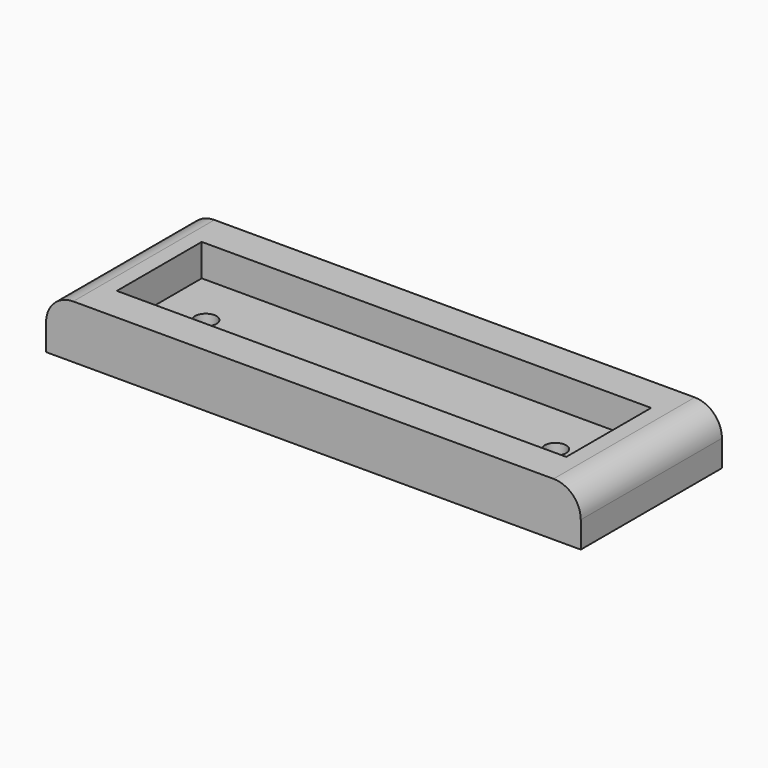
from build123d import *

# Parameters (mm, degrees)
F0_W     = 100
F0_H     = 33
F0_W_2   = 84.051668
F0_H_2   = 19.84357
F0_R     = 2
F1_DEPTH = 4
F2_DEPTH = 10
F3_R     = 5.08


with BuildPart() as f1:
    # F0 (on Top) → F1 (new body)
    with BuildSketch(Plane.XY):
        Rectangle(F0_W, F0_H)
        Rectangle(F0_W_2, F0_H_2, mode=Mode.SUBTRACT)
        Rectangle(F0_W_2, F0_H_2)
        with Locations((-33.341493, 0)):
            Circle(F0_R, mode=Mode.SUBTRACT)
        with Locations((32.065969, 0)):
            Circle(F0_R, mode=Mode.SUBTRACT)
    extrude(amount=F1_DEPTH)

    # F0 (on Top) → F2 (join)
    with BuildSketch(Plane.XY):
        Rectangle(F0_W, F0_H)
        Rectangle(F0_W_2, F0_H_2, mode=Mode.SUBTRACT)
    extrude(amount=F2_DEPTH)

    # F3
    f3_edges = [f1.edges().sort_by_distance(p)[0] for p in [
        (-50, 0, 10),
        (50, 0, 10),
    ]]
    fillet(f3_edges, radius=F3_R)


solid = f1.part
